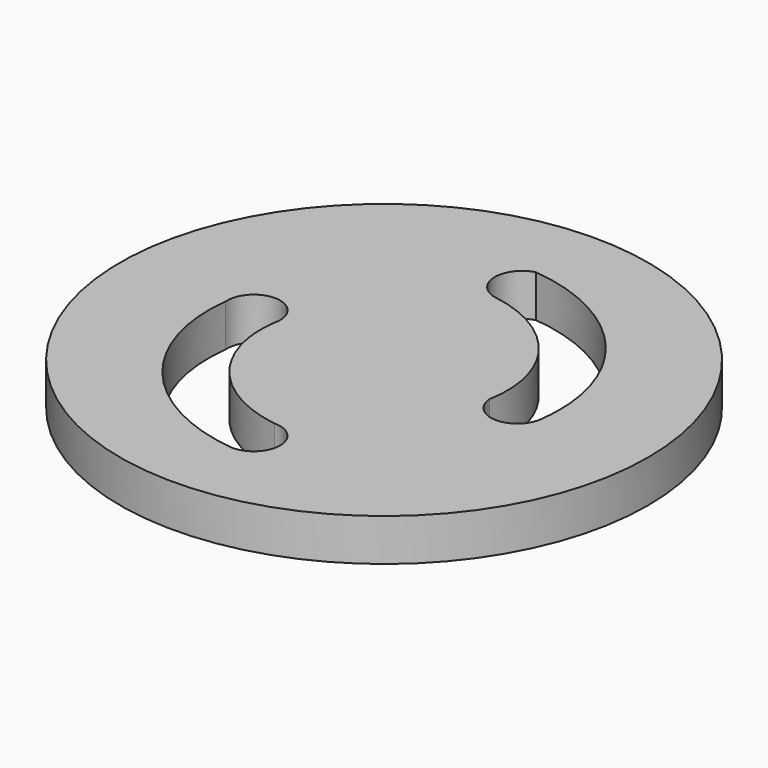
from build123d import *

# Parameters (mm, degrees)
SKETCH_R        = 25
PAD_DEPTH       = 4
POCKET_DEPTH    = 5
POCKET001_DEPTH = 5


with BuildPart() as part:
    # Sketch → Pad (new body)
    with BuildSketch(Plane.XY):
        Circle(SKETCH_R)
    extrude(amount=PAD_DEPTH)

    # Sketch003 → Pocket (cut)
    with BuildSketch(Plane(origin=(0, 0, 0), x_dir=(-1, 0, 0), z_dir=(0, 0, 1))):
        with BuildLine():
            ThreePointArc((-10, 0), (-12.5, 2.357995), (-15, 0))
            add(Edge.make_bspline(
                [(-15, 0), (-15.375, -2.945243), (-15.089089, -6.058788), (-14.076175, -9.167592), (-12.324531, -12.071008), (-9.890344, -14.561821), (-6.900284, -16.456905), (-3.534292, -17.625), (0, -18)],
                knots=[0, 0, 0, 0, 0, 0, 0, 0, 0, 1.862096, 1.862096, 1.862096, 1.862096, 1.862096, 1.862096, 1.862096, 1.862096, 1.862096], degree=8))
            ThreePointArc((0, -18), (1.91492, -15.5), (0, -13))
            add(Edge.make_bspline(
                [(-10, 0), (-10.375, -1.963495), (-10.309393, -4.095292), (-9.737085, -6.280026), (-8.628237, -8.374714), (-7.002778, -10.222731), (-4.936788, -11.677209), (-2.552544, -12.625), (0, -13)],
                knots=[0, 0, 0, 0, 0, 0, 0, 0, 0, 1.862096, 1.862096, 1.862096, 1.862096, 1.862096, 1.862096, 1.862096, 1.862096, 1.862096], degree=8))
        make_face()
    extrude(amount=POCKET_DEPTH, mode=Mode.SUBTRACT)

    # Sketch005 → Pocket001 (cut)
    with BuildSketch(Plane(origin=(0, 0, 0), x_dir=(-1, 0, 0), z_dir=(0, 0, 1))):
        with BuildLine():
            ThreePointArc((10, 0), (12.5, -2.707209), (15, 0))
            add(Edge.make_bspline(
                [(15, 0), (15.375, 2.945243), (15.089089, 6.058788), (14.076175, 9.167592), (12.324531, 12.071008), (9.890344, 14.561821), (6.900284, 16.456905), (3.534292, 17.625), (0, 18)],
                knots=[0, 0, 0, 0, 0, 0, 0, 0, 0, 1.862096, 1.862096, 1.862096, 1.862096, 1.862096, 1.862096, 1.862096, 1.862096, 1.862096], degree=8))
            ThreePointArc((0, 18), (-2.555164, 15.5), (0, 13))
            add(Edge.make_bspline(
                [(10, 0), (10.375, 1.963495), (10.309393, 4.095292), (9.737085, 6.280026), (8.628237, 8.374714), (7.002778, 10.222731), (4.936788, 11.677209), (2.552544, 12.625), (0, 13)],
                knots=[0, 0, 0, 0, 0, 0, 0, 0, 0, 1.862096, 1.862096, 1.862096, 1.862096, 1.862096, 1.862096, 1.862096, 1.862096, 1.862096], degree=8))
        make_face()
    extrude(amount=POCKET001_DEPTH, mode=Mode.SUBTRACT)


solid = part.part
